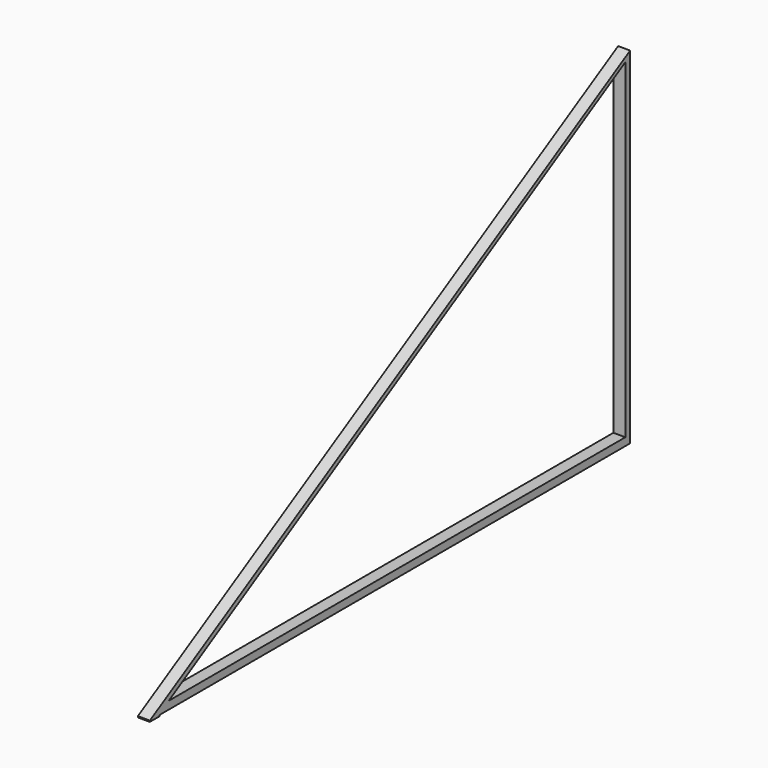
from build123d import *

# Parameters (mm, degrees)
F0_W     = 10
F0_H     = 500
F1_DEPTH = 288
F3_DEPTH = 10
F5_DEPTH = 10
F6_W     = 10
F6_H     = 10
F7_DEPTH = 1


with BuildPart() as f1:
    # F0 (on Top) → F1 (new body)
    with BuildSketch(Plane.XY):
        with Locations((6.476007, 247.370639)):
            Rectangle(F0_W, F0_H)
    extrude(amount=F1_DEPTH)

    # F2 (on face) → F3 (cut)
    with BuildSketch(Plane(origin=(1.476007, 0, 0), x_dir=(0, -1, 0), z_dir=(-1, 0, 0))):
        Polygon((2.629361, 288), (-497.370639, 288), (2.629361, 0), align=None)
    extrude(amount=-F3_DEPTH, mode=Mode.SUBTRACT)

    # F4 (on face) → F5 (cut)
    with BuildSketch(Plane.YZ.offset(11.476007)):
        Polygon((492.370639, 281.5), (17, 6.5), (492.370639, 6.5), align=None)
    extrude(amount=-F5_DEPTH, mode=Mode.SUBTRACT)

    # F6 (on face) → F7 (join)
    with BuildSketch(Plane(origin=(0, 0, 0), x_dir=(1, 0, 0), z_dir=(0, 0, -1))):
        with Locations((6.476007, -2.370639)):
            Rectangle(F6_W, F6_H)
    extrude(amount=F7_DEPTH)


solid = f1.part
